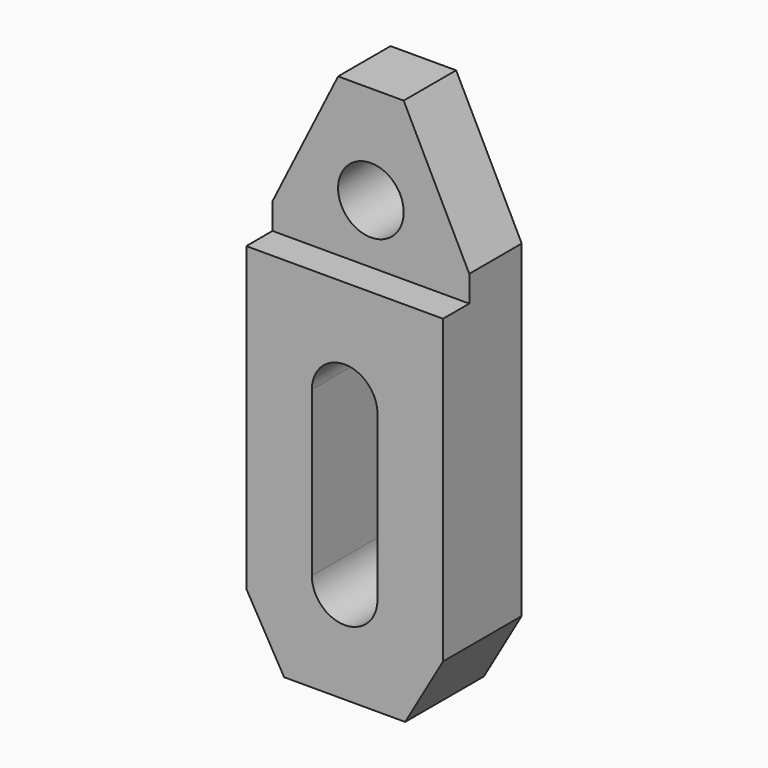
from build123d import *

# Parameters (mm, degrees)
F1_DEPTH = 30
F2_R     = 5
F3_DEPTH = 15.001
F4_DEPTH = 15.001


with BuildPart() as f1:
    # F0 (on Right) → F1 (new body)
    with BuildSketch(Plane.YZ):
        Polygon((15, 66), (10, 66), (10, 10), (25, 10), (25, 90), (15, 90), align=None)
    extrude(amount=F1_DEPTH)

    # F2 (on face) → F3 (cut, through all)
    with BuildSketch(Plane.XZ.offset(-10)):
        with BuildLine():
            Line((10, 50), (10, 25))
            ThreePointArc((10, 25), (15, 20), (20, 25))
            Line((20, 25), (20, 50))
            ThreePointArc((20, 50), (15, 55), (10, 50))
        make_face()
        with Locations((15, 75)):
            Circle(F2_R)
        Polygon((30, 10), (30, 20), (24.226497, 10), align=None)
        Polygon((5.773503, 10), (0, 20), (0, 10), align=None)
    extrude(amount=-F3_DEPTH, mode=Mode.SUBTRACT)

    # F2 (on face) → F4 (cut, through all)
    with BuildSketch(Plane.XZ.offset(-10)):
        Polygon((0, 70), (10, 90), (0, 90), align=None)
        Polygon((30, 90), (20, 90), (30, 70), align=None)
    extrude(amount=-F4_DEPTH, mode=Mode.SUBTRACT)


solid = f1.part
